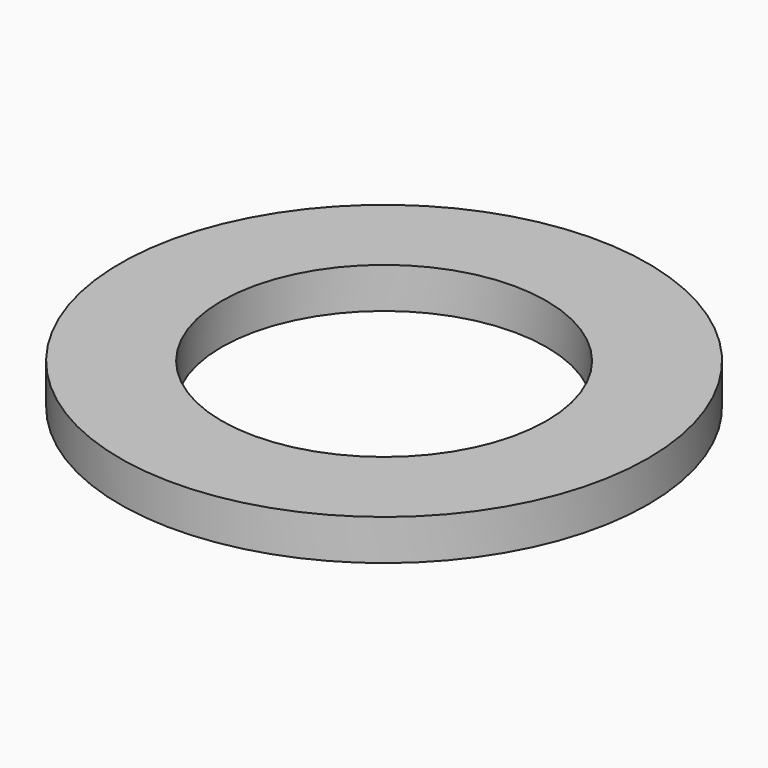
from build123d import *

# Parameters (mm, degrees)
CYLINDER007_R     = 0.4
CYLINDER007_DEPTH = 0.1
CYLINDER006_R     = 0.65
CYLINDER006_DEPTH = 0.1


with BuildPart() as cylinder007:
    # Cylinder007 → Cylinder007 (new body)
    with BuildSketch(Plane.XY.offset(1.62)):
        Circle(CYLINDER007_R)
    extrude(amount=CYLINDER007_DEPTH)


with BuildPart() as cut013:
    # Cylinder006 → Cylinder006 (new body)
    with BuildSketch(Plane.XY.offset(1.62)):
        Circle(CYLINDER006_R)
    extrude(amount=CYLINDER006_DEPTH)

    # Cut013: cut Cylinder007
    add(cylinder007.part, mode=Mode.SUBTRACT)


with BuildPart() as cut013_1:
    # Cut013 placement: moved
    add(cut013.part.moved(Location((21.42, 12.7, 0))))


solid = cut013_1.part
